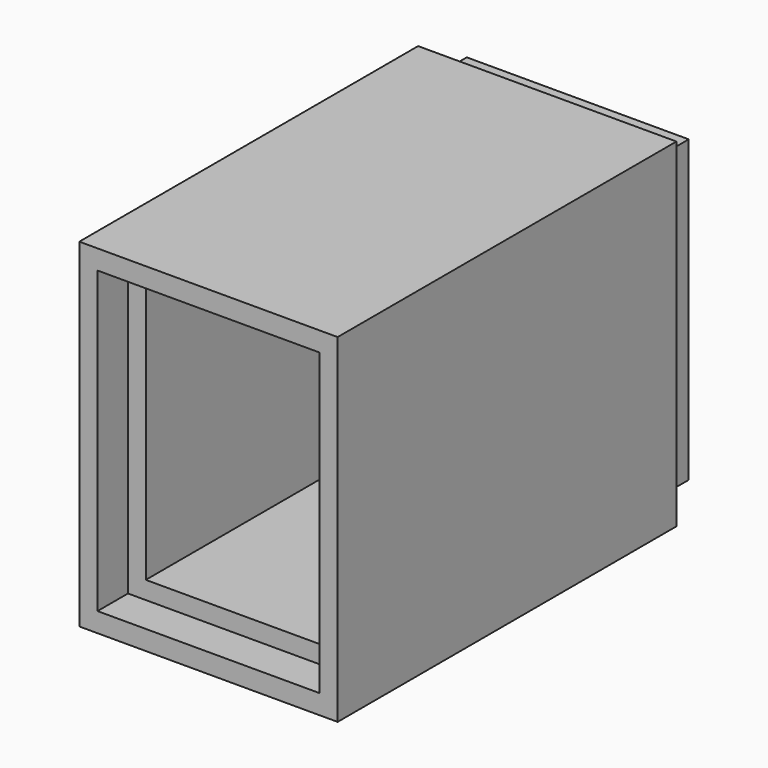
from build123d import *

# Parameters (mm, degrees)
F0_W     = 15.25
F0_H     = 20
F0_W_2   = 11
F0_H_2   = 15.6
F1_DEPTH = 25
F2_W     = 13.1
F2_H     = 17.7
F2_W_2   = 11
F2_H_2   = 15.6
F3_DEPTH = 2.25
F4_W     = 13.1
F4_H     = 17.7
F4_W_2   = 11
F4_H_2   = 15.6
F5_DEPTH = 2.25


with BuildPart() as f1:
    # F0 (on Front) → F1 (new body)
    with BuildSketch(Plane.XZ):
        Rectangle(F0_W, F0_H)
        Rectangle(F0_W_2, F0_H_2, mode=Mode.SUBTRACT)
    extrude(amount=F1_DEPTH)

    # F2 (on face) → F3 (join)
    with BuildSketch(Plane(origin=(0, 0, 0), x_dir=(-1, 0, 0), z_dir=(0, 1, 0))):
        Rectangle(F2_W, F2_H)
        Rectangle(F2_W_2, F2_H_2, mode=Mode.SUBTRACT)
    extrude(amount=F3_DEPTH)

    # F4 (on face) → F5 (cut)
    with BuildSketch(Plane.XZ.offset(25)):
        Rectangle(F4_W, F4_H)
        Rectangle(F4_W_2, F4_H_2, mode=Mode.SUBTRACT)
    extrude(amount=-F5_DEPTH, mode=Mode.SUBTRACT)


solid = f1.part
